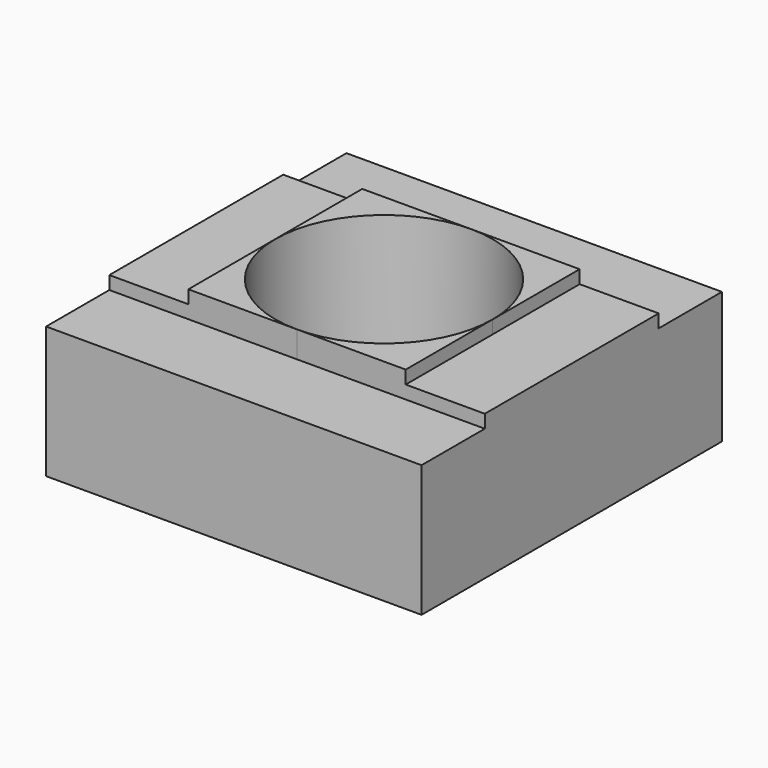
from build123d import *

# Parameters (mm, degrees)
CYLINDER001_R     = 1.65
CYLINDER001_DEPTH = 10
BOX015_W          = 10
BOX015_H          = 10
BOX015_DEPTH      = 0.4
BOX014_W          = 10
BOX014_H          = 10
BOX014_DEPTH      = 0.2
BOX016_W          = 10
BOX016_H          = 10
BOX016_DEPTH      = 0.4
BOX013_W          = 10
BOX013_H          = 10
BOX013_DEPTH      = 0.2
BOX012_W          = 5.7
BOX012_H          = 5.7
BOX012_DEPTH      = 2.4


with BuildPart() as cylinder001:
    # Cylinder001 → Cylinder001 (new body)
    with BuildSketch(Plane.XY):
        Circle(CYLINDER001_R)
    extrude(amount=CYLINDER001_DEPTH)


with BuildPart() as cube013:
    # Box015 → Box015 (new body)
    with BuildSketch(Plane(origin=(-5, -11.65, 2), x_dir=(1, 0, 0), z_dir=(0, 0, 1))):
        with Locations((5, 5)):
            Rectangle(BOX015_W, BOX015_H)
    extrude(amount=BOX015_DEPTH)


with BuildPart() as cube012:
    # Box014 → Box014 (new body)
    with BuildSketch(Plane(origin=(-11.65, -5, 2.2), x_dir=(1, 0, 0), z_dir=(0, 0, 1))):
        with Locations((5, 5)):
            Rectangle(BOX014_W, BOX014_H)
    extrude(amount=BOX014_DEPTH)


with BuildPart() as cube014:
    # Box016 → Box016 (new body)
    with BuildSketch(Plane(origin=(-5, 1.65, 2), x_dir=(1, 0, 0), z_dir=(0, 0, 1))):
        with Locations((5, 5)):
            Rectangle(BOX016_W, BOX016_H)
    extrude(amount=BOX016_DEPTH)


with BuildPart() as fusion007:
    # Box013 → Box013 (new body)
    with BuildSketch(Plane(origin=(1.65, -5, 2.2), x_dir=(1, 0, 0), z_dir=(0, 0, 1))):
        with Locations((5, 5)):
            Rectangle(BOX013_W, BOX013_H)
    extrude(amount=BOX013_DEPTH)

    # Fusion006: union Cube013, Cube012, Cube014
    add(cube013.part)
    add(cube012.part)
    add(cube014.part)

    # Fusion007: union Cylinder001
    add(cylinder001.part)


with BuildPart() as cut005:
    # Box012 → Box012 (new body)
    with BuildSketch(Plane(origin=(-2.85, -2.85, 0), x_dir=(1, 0, 0), z_dir=(0, 0, 1))):
        with Locations((2.85, 2.85)):
            Rectangle(BOX012_W, BOX012_H)
    extrude(amount=BOX012_DEPTH)

    # Cut005: cut Fusion007
    add(fusion007.part, mode=Mode.SUBTRACT)


solid = cut005.part
